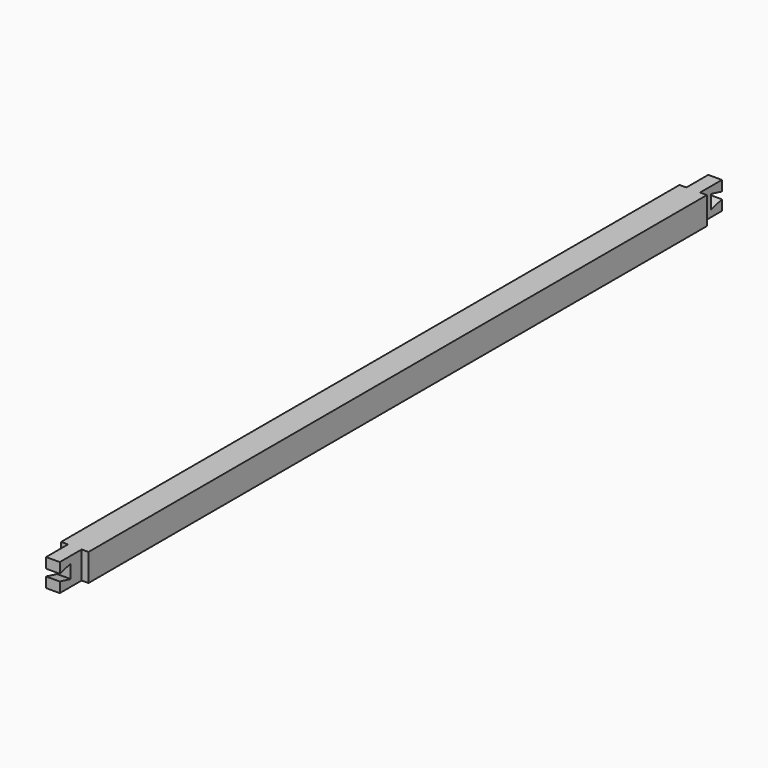
from build123d import *

# Parameters (mm, degrees)
F0_W     = 40
F0_H     = 40
F1_DEPTH = 565
F2_W     = 20
F2_H     = 40
F3_DEPTH = 40
F5_DEPTH = 20


with BuildPart() as f1:
    # F0 (on Front) → F1 (new body)
    with BuildSketch(Plane.XZ):
        with Locations((0.1153, 4.849257)):
            Rectangle(F0_W, F0_H)
    extrude(amount=F1_DEPTH)

    # F2 (on face) → F3 (join)
    with BuildSketch(Plane.XZ.offset(565)):
        with Locations((0.1153, 4.849257)):
            Rectangle(F2_W, F2_H)
    extrude(amount=F3_DEPTH)

    # F4 (on face) → F5 (cut)
    with BuildSketch(Plane.YZ.offset(10.1153)):
        Polygon((-585, 14.849257), (-605, 9.849257), (-605, -0.150743), (-585, -5.150743), align=None)
    extrude(amount=-F5_DEPTH, mode=Mode.SUBTRACT)

    # F6: F1 across face


with BuildPart() as f1_1:
    add(f1.part)
    add(f1.part.mirror(Plane(origin=(0.1153, 0, 4.849257), x_dir=(1, 0, 0), z_dir=(0, 1, 0))))


solid = f1_1.part
